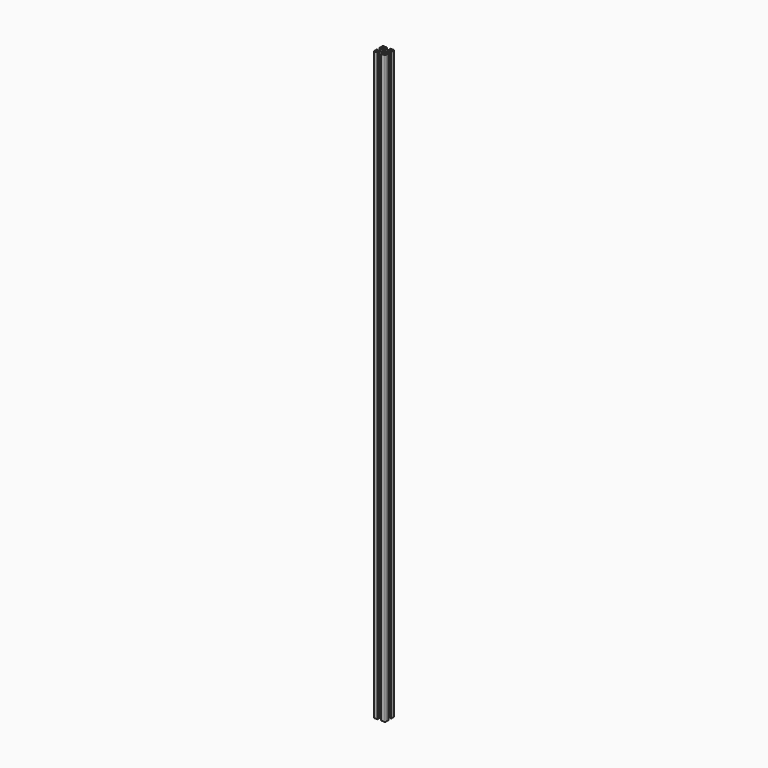
from build123d import *

# Parameters (mm, degrees)
SKETCH_R  = 2.25
PAD_DEPTH = 1020
FILLET_R  = 1.5


with BuildPart() as part:
    # Sketch → Pad (new body)
    with BuildSketch(Plane(origin=(0, 0, 0), x_dir=(1, 0, 0), z_dir=(0, 0, -1))):
        Polygon((7, 0), (7, -1), (4, -1), (4, -2.5), (6.499998, -5), (13.500002, -5), (16, -2.5), (16, -1), (13, -1), (13, 0), (20, 0), (20, -7), (19, -7), (19, -4), (17.5, -4), (15.000002, -6.5), (15.000002, -13.500005), (17.5, -16.000005), (19, -16.000005), (19, -13.000005), (20, -13.000005), (20, -20.000005), (13, -20.000005), (13, -19.000005), (16, -19.000005), (16, -17.500005), (13.500002, -15.000005), (6.499998, -15.000005), (4, -17.500005), (4, -19.000005), (7, -19.000005), (7, -20.000005), (0, -20.000005), (0, -13.000005), (1, -13.000005), (1, -16.000005), (2.5, -16.000005), (4.999998, -13.500005), (4.999998, -6.5), (2.5, -4), (1, -4), (1, -7), (0, -7), (0, 0), align=None)
        with Locations((10, -10.000002)):
            Circle(SKETCH_R, mode=Mode.SUBTRACT)
    extrude(amount=PAD_DEPTH)

    # Fillet
    fillet_edges = [part.edges().sort_by_distance(p)[0] for p in [
        (20, 20.000005, -510),
        (20, 0, -510),
        (0, 20.000005, -510),
        (0, 0, -510),
    ]]
    fillet(fillet_edges, radius=FILLET_R)


solid = part.part
